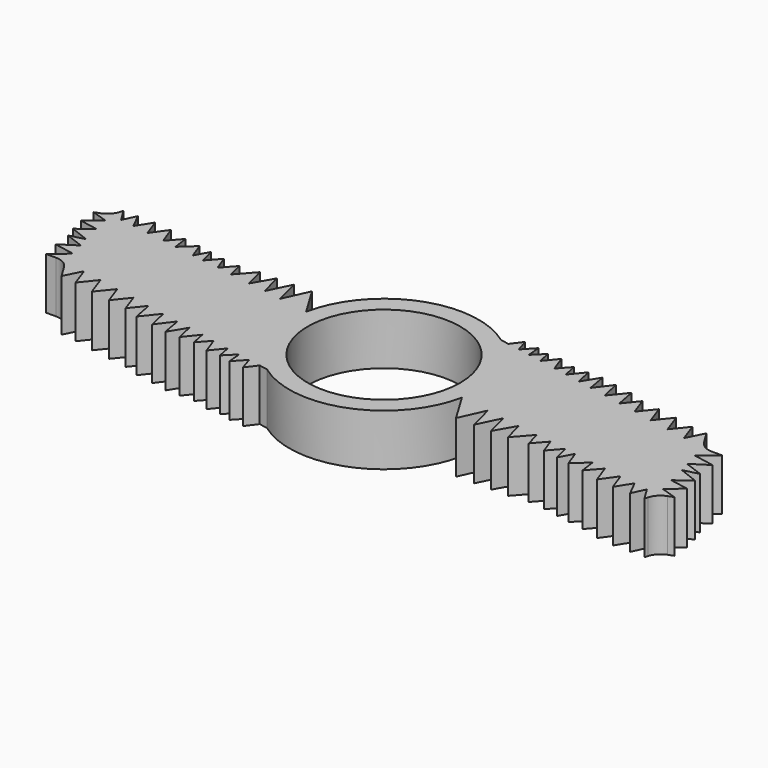
from build123d import *

# Parameters (mm, degrees)
F0_R     = 11.25
F1_DEPTH = 7.62
F2_R     = 2.54


with BuildPart() as f1:
    # F0 (on Top) → F1 (new body)
    with BuildSketch(Plane.XY):
        with BuildLine():
            ThreePointArc((13.695194, -2.757274), (13.901129, -1.385467), (13.97, 0))
            ThreePointArc((13.97, 0), (12.456401, 6.324474), (8.243591, 11.27848))
            ThreePointArc((8.243591, 11.27848), (-5.057937, 13.022218), (-13.695194, 2.757274))
            ThreePointArc((-13.695194, 2.757274), (-13.022218, -5.057937), (-8.243591, -11.27848))
            ThreePointArc((-8.243591, -11.27848), (5.057937, -13.022218), (13.695194, -2.757274))
        make_face()
        Circle(F0_R, mode=Mode.SUBTRACT)
        with BuildLine():
            ThreePointArc((8.243591, 11.27848), (12.456401, 6.324474), (13.97, 0))
            ThreePointArc((13.97, 0), (13.901129, -1.385467), (13.695194, -2.757274))
            Line((13.695194, -2.757274), (18.046504, -3.400007))
            Line((18.046504, -3.400007), (20.647889, -3.784257))
            Line((20.647889, -3.784257), (23.234406, -4.166312))
            Line((23.234406, -4.166312), (26.258385, -4.612984))
            Line((26.258385, -4.612984), (28.523248, -4.947527))
            Line((28.523248, -4.947527), (30.968487, -5.308713))
            Line((30.968487, -5.308713), (32.656681, -5.558076))
            Line((32.656681, -5.558076), (35.562277, -5.987262))
            Line((35.562277, -5.987262), (37.618638, -6.291007))
            Line((37.618638, -6.291007), (40.230147, -6.676753))
            Line((40.230147, -6.676753), (42.585731, -7.024697))
            Line((42.585731, -7.024697), (44.640029, -7.328137))
            Line((44.640029, -7.328137), (46.360764, -7.582307))
            Line((46.360764, -7.582307), (45.977047, -6.092634))
            Line((45.977047, -6.092634), (45.382247, -3.783485))
            Line((45.382247, -3.783485), (44.2688, 0.539161))
            Line((44.2688, 0.539161), (43.710486, 2.706662))
            Line((43.710486, 2.706662), (43.192849, 4.716242))
            Line((43.192849, 4.716242), (39.974761, 5.320486))
            Line((39.974761, 5.320486), (37.129923, 5.854646))
            Line((37.129923, 5.854646), (34.206946, 6.403478))
            Line((34.206946, 6.403478), (31.410099, 6.928627))
            Line((31.410099, 6.928627), (28.772873, 7.423805))
            Line((28.772873, 7.423805), (26.212834, 7.90449))
            Line((26.212834, 7.90449), (23.747829, 8.367331))
            Line((23.747829, 8.367331), (21.698637, 8.752097))
            Line((21.698637, 8.752097), (19.441536, 9.175901))
            Line((19.441536, 9.175901), (17.487376, 9.542823))
            Line((17.487376, 9.542823), (15.022369, 10.005664))
            Line((15.022369, 10.005664), (13.060459, 10.374042))
            Line((13.060459, 10.374042), (11.307054, 10.70327))
            Line((11.307054, 10.70327), (9.495402, 11.043434))
            Line((9.495402, 11.043434), (8.243591, 11.27848))
        make_face()
        with BuildLine():
            ThreePointArc((-8.243591, -11.27848), (-13.022218, -5.057937), (-13.695194, 2.757274))
            Line((-13.695194, 2.757274), (-18.046504, 3.400007))
            Line((-18.046504, 3.400007), (-20.647889, 3.784257))
            Line((-20.647889, 3.784257), (-23.234406, 4.166312))
            Line((-23.234406, 4.166312), (-26.258385, 4.612984))
            Line((-26.258385, 4.612984), (-28.523248, 4.947527))
            Line((-28.523248, 4.947527), (-30.968487, 5.308713))
            Line((-30.968487, 5.308713), (-32.656681, 5.558076))
            Line((-32.656681, 5.558076), (-35.562277, 5.987262))
            Line((-35.562277, 5.987262), (-37.618638, 6.291007))
            Line((-37.618638, 6.291007), (-40.230147, 6.676753))
            Line((-40.230147, 6.676753), (-42.585731, 7.024697))
            Line((-42.585731, 7.024697), (-44.640029, 7.328137))
            Line((-44.640029, 7.328137), (-46.360764, 7.582307))
            Line((-46.360764, 7.582307), (-45.977047, 6.092634))
            Line((-45.977047, 6.092634), (-45.382247, 3.783485))
            Line((-45.382247, 3.783485), (-44.2688, -0.539161))
            Line((-44.2688, -0.539161), (-43.710486, -2.706662))
            Line((-43.710486, -2.706662), (-43.192849, -4.716242))
            Line((-43.192849, -4.716242), (-39.974761, -5.320486))
            Line((-39.974761, -5.320486), (-37.129923, -5.854646))
            Line((-37.129923, -5.854646), (-34.206946, -6.403478))
            Line((-34.206946, -6.403478), (-31.410099, -6.928627))
            Line((-31.410099, -6.928627), (-28.772873, -7.423805))
            Line((-28.772873, -7.423805), (-26.212834, -7.90449))
            Line((-26.212834, -7.90449), (-23.747829, -8.367331))
            Line((-23.747829, -8.367331), (-21.698637, -8.752097))
            Line((-21.698637, -8.752097), (-19.441536, -9.175901))
            Line((-19.441536, -9.175901), (-17.487376, -9.542823))
            Line((-17.487376, -9.542823), (-15.022369, -10.005664))
            Line((-15.022369, -10.005664), (-13.060459, -10.374042))
            Line((-13.060459, -10.374042), (-11.307054, -10.70327))
            Line((-11.307054, -10.70327), (-9.495402, -11.043434))
            Line((-9.495402, -11.043434), (-8.243591, -11.27848))
        make_face()
        Polygon((10.707353, 12.637032), (9.495402, 11.043434), (11.307054, 10.70327), align=None)
        Polygon((12.871755, 12.391077), (11.307054, 10.70327), (13.060459, 10.374042), align=None)
        Polygon((14.64263, 11.948359), (13.060459, 10.374042), (15.022369, 10.005664), align=None)
        Polygon((16.610269, 11.948359), (15.022369, 10.005664), (17.487376, 9.542823), align=None)
        Polygon((19.020624, 11.27848), (17.487376, 9.542823), (19.441536, 9.175901), align=None)
        Polygon((21.135837, 11.27848), (19.441536, 9.175901), (21.698637, 8.752097), align=None)
        Polygon((23.239078, 11.27848), (21.698637, 8.752097), (23.747829, 8.367331), align=None)
        Polygon((25.566199, 10.789929), (23.747829, 8.367331), (26.212834, 7.90449), align=None)
        Polygon((28.202849, 10.374042), (26.212834, 7.90449), (28.772873, 7.423805), align=None)
        Polygon((30.480421, 9.542823), (28.772873, 7.423805), (31.410099, 6.928627), align=None)
        Polygon((33.220999, 9.175901), (31.410099, 6.928627), (34.206946, 6.403478), align=None)
        Polygon((36.099512, 8.752097), (34.206946, 6.403478), (37.129923, 5.854646), align=None)
        Polygon((38.971896, 8.140481), (37.129923, 5.854646), (39.974761, 5.320486), align=None)
        Polygon((41.253339, 7.882453), (39.974761, 5.320486), (43.192849, 4.716242), align=None)
        Polygon((46.070598, 4.716242), (43.192849, 4.716242), (43.710486, 2.706662), align=None)
        Polygon((46.741366, 2.13757), (43.710486, 2.706662), (44.2688, 0.539161), align=None)
        Polygon((44.2688, 0.539161), (45.382247, -3.783485), (47.609445, -2.1535), (44.776806, -1.055378), (47.007285, -0.480841), align=None)
        Polygon((45.382247, -3.783485), (45.977047, -6.092634), (48.144694, -4.294504), align=None)
        Polygon((45.977047, -6.092634), (46.360764, -7.582307), (48.332162, -6.857038), align=None)
        Polygon((46.360764, -7.582307), (44.640029, -7.328137), (45.839909, -9.274097), align=None)
        Polygon((44.640029, -7.328137), (42.585731, -7.024697), (43.723498, -9.274097), align=None)
        Polygon((42.585731, -7.024697), (40.230147, -6.676753), (41.177191, -9.274097), align=None)
        Polygon((40.230147, -6.676753), (37.618638, -6.291007), (38.597815, -8.976477), align=None)
        Polygon((37.618638, -6.291007), (35.562277, -5.987262), (35.883938, -8.254709), align=None)
        Polygon((35.562277, -5.987262), (32.656681, -5.558076), (33.505198, -7.885202), align=None)
        Polygon((32.656681, -5.558076), (30.968487, -5.308713), (31.554129, -7.582307), align=None)
        Polygon((30.968487, -5.308713), (28.523248, -4.947527), (29.330876, -7.162509), align=None)
        Polygon((28.523248, -4.947527), (26.258385, -4.612984), (26.836419, -6.857038), align=None)
        Polygon((26.258385, -4.612984), (23.234406, -4.166312), (24.006179, -7.162509), align=None)
        Polygon((23.234406, -4.166312), (20.647889, -3.784257), (21.518074, -7.162509), align=None)
        Polygon((20.647889, -3.784257), (18.046504, -3.400007), (19.015666, -7.162509), align=None)
        Polygon((18.046504, -3.400007), (13.695194, -2.757274), (16.351812, -7.162509), align=None)
        Polygon((-10.707353, -12.637032), (-9.495402, -11.043434), (-11.307054, -10.70327), align=None)
        Polygon((-12.871755, -12.391077), (-11.307054, -10.70327), (-13.060459, -10.374042), align=None)
        Polygon((-14.64263, -11.948359), (-13.060459, -10.374042), (-15.022369, -10.005664), align=None)
        Polygon((-16.610269, -11.948359), (-15.022369, -10.005664), (-17.487376, -9.542823), align=None)
        Polygon((-19.020624, -11.27848), (-17.487376, -9.542823), (-19.441536, -9.175901), align=None)
        Polygon((-21.135837, -11.27848), (-19.441536, -9.175901), (-21.698637, -8.752097), align=None)
        Polygon((-23.239078, -11.27848), (-21.698637, -8.752097), (-23.747829, -8.367331), align=None)
        Polygon((-25.566199, -10.789929), (-23.747829, -8.367331), (-26.212834, -7.90449), align=None)
        Polygon((-28.202849, -10.374042), (-26.212834, -7.90449), (-28.772873, -7.423805), align=None)
        Polygon((-33.220999, -9.175901), (-31.410099, -6.928627), (-34.206946, -6.403478), align=None)
        Polygon((-38.971896, -8.140481), (-37.129923, -5.854646), (-39.974761, -5.320486), align=None)
        Polygon((-41.253339, -7.882453), (-39.974761, -5.320486), (-43.192849, -4.716242), align=None)
        Polygon((-30.480421, -9.542823), (-28.772873, -7.423805), (-31.410099, -6.928627), align=None)
        Polygon((-36.099512, -8.752097), (-34.206946, -6.403478), (-37.129923, -5.854646), align=None)
        Polygon((-46.070598, -4.716242), (-43.192849, -4.716242), (-43.710486, -2.706662), align=None)
        Polygon((-43.710486, -2.706662), (-44.2688, -0.539161), (-46.741366, -2.13757), align=None)
        Polygon((-45.382247, 3.783485), (-45.977047, 6.092634), (-48.144694, 4.294504), align=None)
        Polygon((-45.977047, 6.092634), (-46.360764, 7.582307), (-48.332162, 6.857038), align=None)
        Polygon((-46.360764, 7.582307), (-44.640029, 7.328137), (-45.839909, 9.274097), align=None)
        Polygon((-44.640029, 7.328137), (-42.585731, 7.024697), (-43.723498, 9.274097), align=None)
        Polygon((-42.585731, 7.024697), (-40.230147, 6.676753), (-41.177191, 9.274097), align=None)
        Polygon((-40.230147, 6.676753), (-37.618638, 6.291007), (-38.597815, 8.976477), align=None)
        Polygon((-37.618638, 6.291007), (-35.562277, 5.987262), (-35.883938, 8.254709), align=None)
        Polygon((-32.656681, 5.558076), (-30.968487, 5.308713), (-31.554129, 7.582307), align=None)
        Polygon((-30.968487, 5.308713), (-28.523248, 4.947527), (-29.330876, 7.162509), align=None)
        Polygon((-28.523248, 4.947527), (-26.258385, 4.612984), (-26.836419, 6.857038), align=None)
        Polygon((-44.2688, -0.539161), (-45.382247, 3.783485), (-47.609445, 2.1535), (-44.776806, 1.055378), (-47.007285, 0.480841), align=None)
        Polygon((-35.562277, 5.987262), (-32.656681, 5.558076), (-33.505198, 7.885202), align=None)
        Polygon((-26.258385, 4.612984), (-23.234406, 4.166312), (-24.006179, 7.162509), align=None)
        Polygon((-23.234406, 4.166312), (-20.647889, 3.784257), (-21.518074, 7.162509), align=None)
        Polygon((-20.647889, 3.784257), (-18.046504, 3.400007), (-19.015666, 7.162509), align=None)
        Polygon((-18.046504, 3.400007), (-13.695194, 2.757274), (-16.351812, 7.162509), align=None)
    extrude(amount=F1_DEPTH)

    # F2
    f2_edges = [f1.edges().sort_by_distance(p)[0] for p in [
        (-46.360764, 7.582307, 3.81),
        (-43.192849, -4.716242, 3.81),
        (46.360764, -7.582307, 3.81),
        (43.192849, 4.716242, 3.81),
    ]]
    fillet(f2_edges, radius=F2_R)


solid = f1.part
